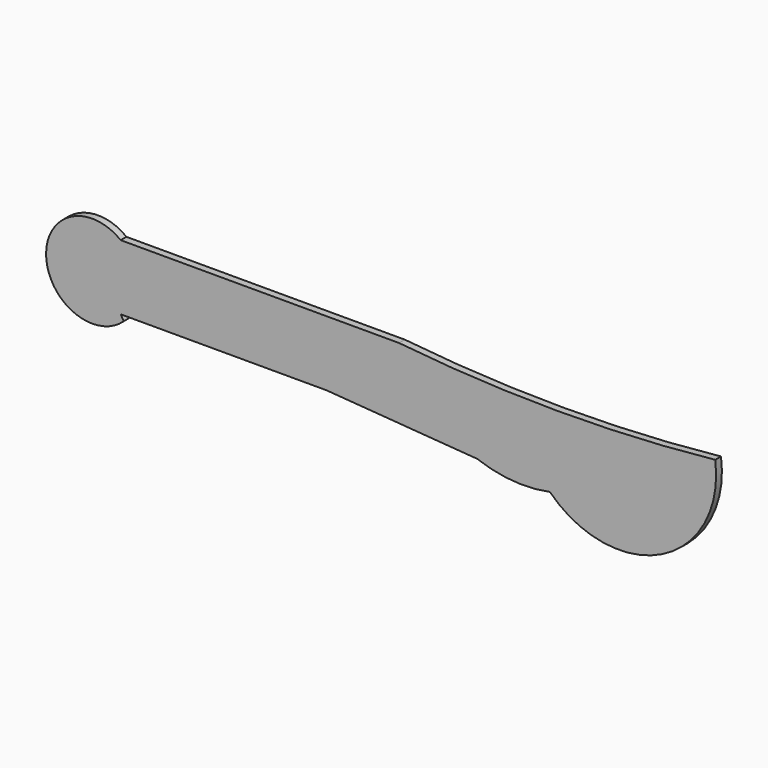
from build123d import *

# Parameters (mm, degrees)
F1_DEPTH = 25.4


with BuildPart() as f1:
    # F0 (on Front) → F1 (new body)
    with BuildSketch(Plane.XZ):
        with BuildLine():
            ThreePointArc((-1108.766913414, 0), (-836.979746873, -130.3325864651), (-579.9417495728, -287.7692878246))
            ThreePointArc((-579.9417495728, -287.7692878246), (-186.6180808752, -352.1716385989), (0, 0))
            ThreePointArc((0, 0), (-554.383456707, -29.0433212184), (-1108.766913414, 0))
        make_face()
        with BuildLine():
            Line((-834.7774703357, -268.5709603033), (-579.9417495728, -287.7692878246))
            ThreePointArc((-579.9417495728, -287.7692878246), (-836.979746873, -130.3325864651), (-1108.766913414, 0))
            ThreePointArc((-1108.766913414, 0), (-1000.6160082702, -163.7112273788), (-834.7774703357, -268.5709603032))
        make_face()
        with BuildLine():
            ThreePointArc((-834.7774703357, -268.5709603032), (-708.6979426518, -295.9349516107), (-579.9417495728, -287.7692878246))
            Line((-579.9417495728, -287.7692878246), (-834.7774703357, -268.5709603033))
        make_face()
        with BuildLine():
            ThreePointArc((-834.7774703357, -268.5709603032), (-1000.6160082702, -163.7112273788), (-1108.766913414, 0))
            ThreePointArc((-1108.766913414, 0), (-1186.9150728411, -168.7262748124), (-1362.894263815, -228.784704513))
            Line((-1362.894263815, -228.784704513), (-834.7774703357, -268.5709603033))
        make_face()
        with BuildLine():
            ThreePointArc((-1362.894263815, -228.784704513), (-1186.9150728411, -168.7262748124), (-1108.766913414, 0))
            Line((-1108.766913414, 0), (-1581.4932584763, 0))
            Line((-1581.4932584763, 0), (-1362.894263815, -228.784704513))
        make_face()
        with BuildLine():
            Line((-2085.1438045502, -228.784704513), (-1362.894263815, -228.784704513))
            ThreePointArc((-1362.894263815, -228.784704513), (-1416.5381040648, -218.4133648746), (-1466.3696860565, -196.0071220202))
            Line((-1466.3696860565, -196.0071220202), (-2085.1438045502, 0))
            Line((-2085.1438045502, 0), (-2085.1438045502, -228.784704513))
        make_face()
        with BuildLine():
            Line((-1466.3696860565, -196.0071220202), (-1362.894263815, -228.784704513))
            Line((-1362.894263815, -228.784704513), (-1581.4932584763, 0))
            ThreePointArc((-1581.4932584763, 0), (-1549.0286727991, -112.7442467223), (-1466.3696860565, -196.0071220202))
        make_face()
        with BuildLine():
            ThreePointArc((-1466.3696860565, -196.0071220202), (-1416.5381040648, -218.4133648746), (-1362.894263815, -228.784704513))
            Line((-1362.894263815, -228.784704513), (-1466.3696860565, -196.0071220202))
        make_face()
        with BuildLine():
            ThreePointArc((-1466.3696860565, -196.0071220202), (-1549.0286727991, -112.7442467223), (-1581.4932584763, 0))
            Line((-1581.4932584763, 0), (-2085.1438045502, 0))
            Line((-2085.1438045502, 0), (-1466.3696860565, -196.0071220202))
        make_face()
        with BuildLine():
            Line((-2074.405670166, -246.9456195831), (-2085.1438045502, -228.784704513))
            Line((-2085.1438045502, -228.784704513), (-2085.1438045502, 0))
            ThreePointArc((-2085.1438045502, 0), (-2346.5898933402, -135.0749471589), (-2074.405670166, -246.9456195831))
        make_face()
    extrude(amount=F1_DEPTH)


solid = f1.part
